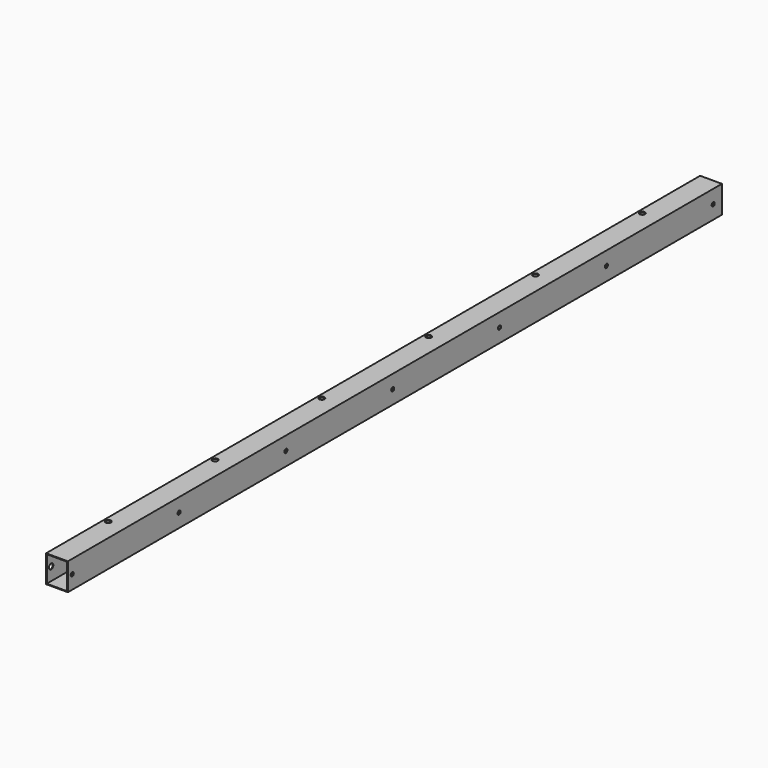
from build123d import *

# Parameters (mm, degrees)
F0_W           = 40
F0_H           = 50
F0_W_2         = 37.5
F0_H_2         = 47.5
F1_DEPTH       = 1500
F4_D           = 7
F5_D           = 10
F5_DEPTH       = 20
F5_TIP         = 3.0043030951
F5_ON_F3_D     = 10
F5_ON_F3_DEPTH = 20
F5_ON_F3_TIP   = 3.0043030951
F6_D           = 7
F6_DEPTH       = 2
F6_TIP         = 2.1030121666


with BuildPart() as f1:
    # F0 (on Front) → F1 (new body)
    with BuildSketch(Plane.XZ):
        Rectangle(F0_W, F0_H)
        Rectangle(F0_W_2, F0_H_2, mode=Mode.SUBTRACT)
    extrude(amount=F1_DEPTH)

    # F4 (through all)
    with Locations(Plane(origin=(-20, 0, 0), x_dir=(0, -1, 0), z_dir=(-1, 0, 0))):
        with Locations((1490, 0), (1245, 0), (1000, 0), (755, 0), (510, 0), (265, 0), (20, 0)):
            Hole(F4_D / 2)

    # F5
    with Locations(Plane(origin=(-20, 0, 0), x_dir=(0, -1, 0), z_dir=(-1, 0, 0))):
        with Locations((1490, 0), (1245, 0), (1000, 0), (755, 0), (510, 0), (265, 0), (20, 0)):
            Hole(F5_D / 2, depth=F5_DEPTH)
            with Locations((0, 0, -(F5_DEPTH + F5_TIP / 2))):  # 118° drill point
                Cone(0, F5_D / 2, F5_TIP, mode=Mode.SUBTRACT)

    # F5 on F3
    with Locations(Plane.XY.offset(25)):
        with Locations((-12, -1367.5), (-12, -1122.5), (-12, -877.5), (-12, -632.5), (-12, -387.5), (-12, -142.5)):
            Hole(F5_ON_F3_D / 2, depth=F5_ON_F3_DEPTH)
            with Locations((0, 0, -(F5_ON_F3_DEPTH + F5_ON_F3_TIP / 2))):  # 118° drill point
                Cone(0, F5_ON_F3_D / 2, F5_ON_F3_TIP, mode=Mode.SUBTRACT)

    # F6
    with Locations(Plane(origin=(-20, 0, 0), x_dir=(0, -1, 0), z_dir=(-1, 0, 0))):
        with Locations((1367.5, 0), (1122.5, 0), (877.5, 0), (632.5, 0), (387.5, 0), (142.5, 0)):
            Hole(F6_D / 2, depth=F6_DEPTH)
            with Locations((0, 0, -(F6_DEPTH + F6_TIP / 2))):  # 118° drill point
                Cone(0, F6_D / 2, F6_TIP, mode=Mode.SUBTRACT)


solid = f1.part
